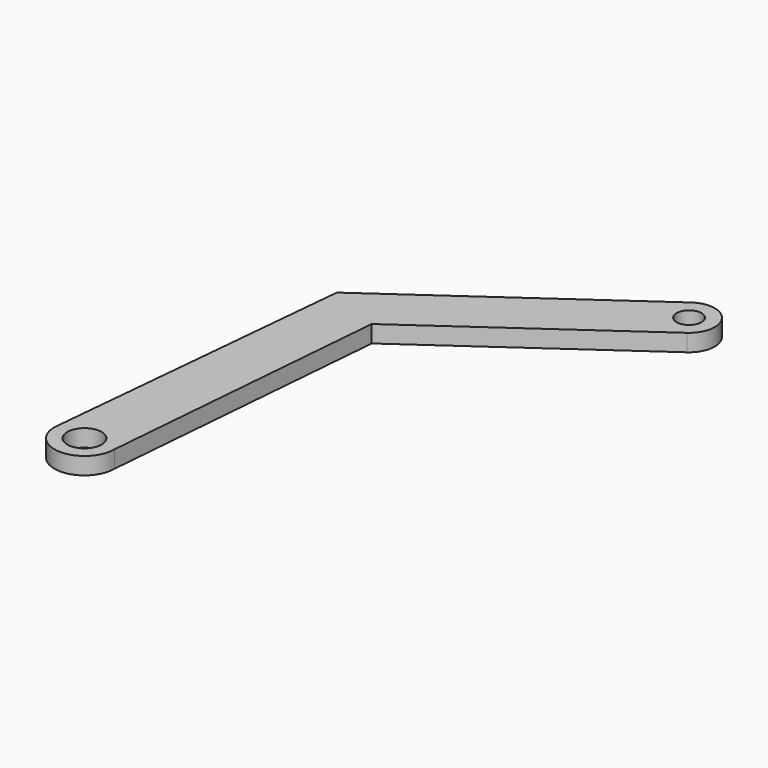
from build123d import *

# Parameters (mm, degrees)
F0_R     = 2
F0_R_2   = 1.45
F1_DEPTH = 2


with BuildPart() as f1:
    # F0 (on Top) → F1 (new body)
    with BuildSketch(Plane.XY):
        with BuildLine():
            ThreePointArc((-3.5, 0), (0, -3.5), (3.5, 0))
            Line((3.5, 0), (6.355809, 33.949312))
            Line((6.355809, 33.949312), (29.876506, 50.536183))
            ThreePointArc((29.876506, 50.536183), (30.599256, 54.716808), (26.41863, 55.439558))
            Line((26.41863, 55.439558), (0, 36.809056))
            Line((0, 36.809056), (-3.5, 0))
        make_face()
        Circle(F0_R, mode=Mode.SUBTRACT)
        with Locations((28.147568, 52.98787)):
            Circle(F0_R_2, mode=Mode.SUBTRACT)
    extrude(amount=F1_DEPTH)


solid = f1.part
